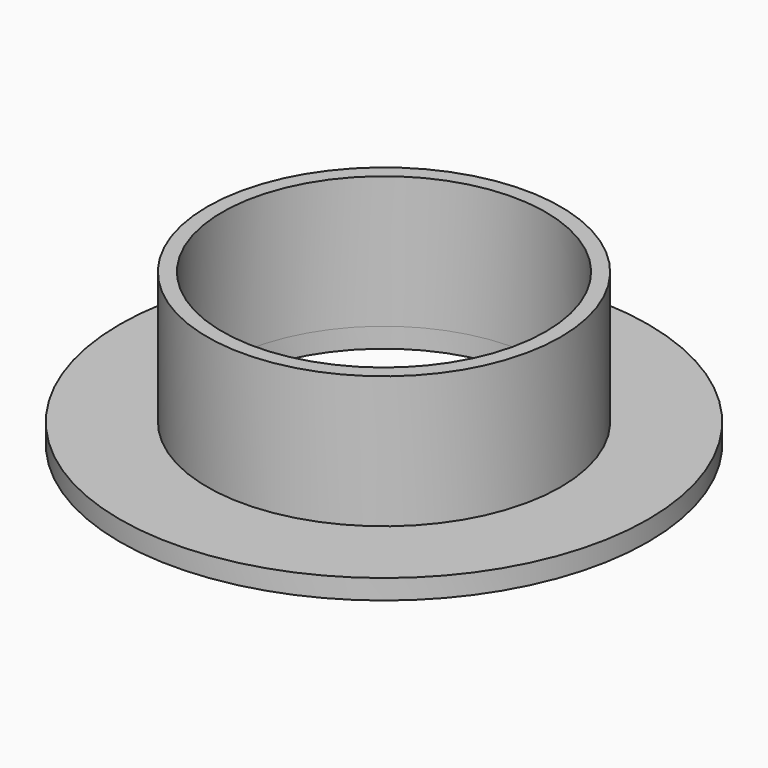
from build123d import *

# Parameters (mm, degrees)
F0_R     = 40
F1_DEPTH = 3
F2_R     = 26.75
F2_R_2   = 24.5
F3_DEPTH = 20
F4_DEPTH = 3.001


with BuildPart() as f1:
    # F0 (on Top) → F1 (new body)
    with BuildSketch(Plane.XY):
        Circle(F0_R)
    extrude(amount=F1_DEPTH)

    # F2 (on face) → F3 (join)
    with BuildSketch(Plane.XY.offset(3)):
        Circle(F2_R)
        Circle(F2_R_2, mode=Mode.SUBTRACT)
    extrude(amount=F3_DEPTH)

    # F2 (on face) → F4 (cut, through all)
    with BuildSketch(Plane.XY.offset(3)):
        Circle(F2_R_2)
    extrude(amount=-F4_DEPTH, mode=Mode.SUBTRACT)


solid = f1.part
